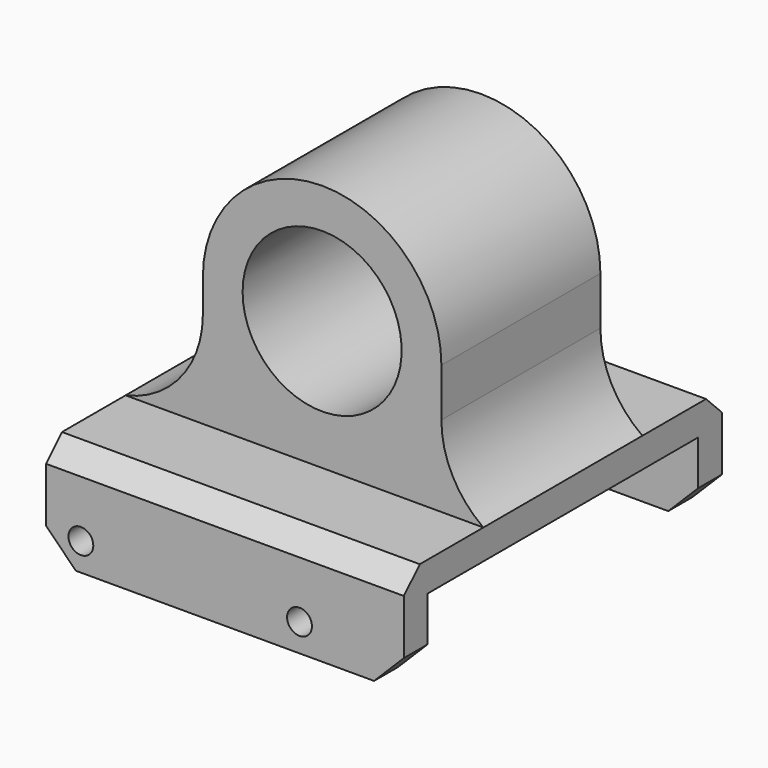
from build123d import *

# Parameters (mm, degrees)
F1_DEPTH = 10
F0_W     = 36
F0_H     = 10.5
F2_DEPTH = 20
F3_W     = 34
F3_H     = 7.5
F4_DEPTH = 36.001
F5_R     = 1.25
F6_DEPTH = 43.8
F7_SIZE  = 3
F8_SIZE  = 2


with BuildPart() as f1:
    # F0 (on Front) → F1 (new body, symmetric)
    with BuildSketch(Plane.XZ):
        with BuildLine():
            ThreePointArc((-8, 0), (0, 8), (8, 0))
            Line((8, 0), (12, 0))
            ThreePointArc((12, 0), (0, 12), (-12, 0))
            Line((-12, 0), (-8, 0))
        make_face()
        with BuildLine():
            Line((12, 0), (8, 0))
            ThreePointArc((8, 0), (0, -8), (-8, 0))
            Line((-8, 0), (-12, 0))
            Line((-12, 0), (-12, -3.318))
            ThreePointArc((-12, -3.318), (-14.1841212285, -9.5264890007), (-19.774330755, -13))
            Line((-19.774330755, -13), (16.225669245, -13))
            ThreePointArc((16.225669245, -13), (13.1191975203, -9.4390615485), (12, -4.848))
            Line((12, -4.848), (12, 0))
        make_face()
        with BuildLine():
            Line((12, 0), (8, 0))
            ThreePointArc((8, 0), (0, -8), (-8, 0))
            Line((-8, 0), (-12, 0))
            Line((-12, 0), (-12, -3.318))
            ThreePointArc((-12, -3.318), (-14.1841212285, -9.5264890007), (-19.774330755, -13))
            Line((-19.774330755, -13), (16.225669245, -13))
            ThreePointArc((16.225669245, -13), (13.1191975203, -9.4390615485), (12, -4.848))
            Line((12, -4.848), (12, 0))
        make_face()
    extrude(amount=F1_DEPTH, both=True)

    # F0 (on Front) → F2 (join, symmetric)
    with BuildSketch(Plane.XZ):
        with Locations((-1.774330755, -18.25)):
            Rectangle(F0_W, F0_H)
    extrude(amount=F2_DEPTH, both=True)

    # F3 (on face) → F4 (cut, through all)
    with BuildSketch(Plane(origin=(-19.774330755, 0, 0), x_dir=(0, -1, 0), z_dir=(-1, 0, 0))):
        with Locations((0, -19.75)):
            Rectangle(F3_W, F3_H)
    extrude(amount=-F4_DEPTH, mode=Mode.SUBTRACT)

    # F5 (on face) → F6 (cut)
    with BuildSketch(Plane.XZ.offset(20)):
        with Locations((-16.274330755, -20.7)):
            Circle(F5_R)
        with Locations((5.725669245, -20.7)):
            Circle(F5_R)
    extrude(amount=-F6_DEPTH, mode=Mode.SUBTRACT)

    # F7
    f7_edges = [f1.edges().sort_by_distance(p)[0] for p in [
        (-19.774331, -18.5, -23.5),
        (-19.774331, 18.5, -23.5),
        (16.225669, 18.5, -23.5),
        (16.225669, -18.5, -23.5),
    ]]
    chamfer(f7_edges, length=F7_SIZE)

    # F8
    f8_edges = [f1.edges().sort_by_distance(p)[0] for p in [
        (-1.774331, -20, -13),
        (-1.774331, 20, -13),
    ]]
    chamfer(f8_edges, length=F8_SIZE)


solid = f1.part
